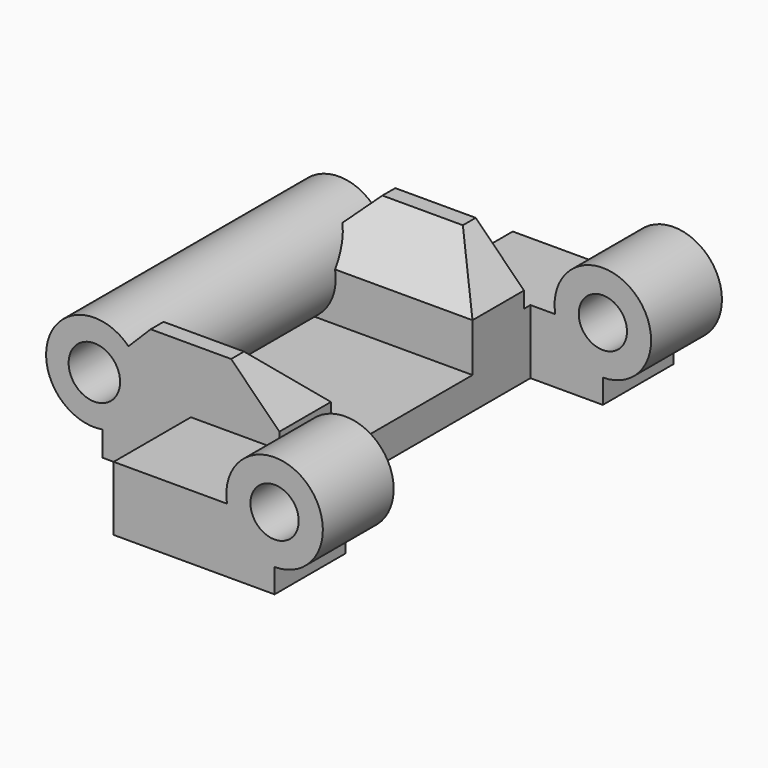
from build123d import *

# Parameters (mm, degrees)
BOX005_W               = 11
BOX005_H               = 20
BOX005_DEPTH           = 8
CYLINDER002_R          = 1.6
CYLINDER002_DEPTH      = 19
CYLINDER002_ROLL_ANGLE = 90
BOX001_W               = 15
BOX001_H               = 11
BOX001_DEPTH           = 7
BOX_W                  = 11
BOX_H                  = 19
BOX_DEPTH              = 8
CHAMFER_SIZE           = 3
CHAMFER001_SIZE        = 3
CHAMFER003_SIZE        = 3
CHAMFER004_SIZE        = 3
CYLINDER005_R          = 3
CYLINDER005_DEPTH      = 19
CYLINDER005_ROLL_ANGLE = 90
CYLINDER007_R          = 1.5
CYLINDER007_DEPTH      = 6
CYLINDER007_ROLL_ANGLE = 90
BOX004_W               = 10
BOX004_H               = 6
BOX004_DEPTH           = 4
CYLINDER008_R          = 3
CYLINDER008_DEPTH      = 6
CYLINDER008_ROLL_ANGLE = 90
CYLINDER003_R          = 1.5
CYLINDER003_DEPTH      = 6
CYLINDER003_ROLL_ANGLE = 90
BOX002_W               = 10
BOX002_H               = 6
BOX002_DEPTH           = 4
CYLINDER004_R          = 3
CYLINDER004_DEPTH      = 6
CYLINDER004_ROLL_ANGLE = 90


with BuildPart() as cube005:
    # Box005 → Box005 (new body)
    with BuildSketch(Plane(origin=(11, -0.5, 0), x_dir=(1, 0, 0), z_dir=(0, 0, 1))):
        with Locations((5.5, 10)):
            Rectangle(BOX005_W, BOX005_H)
    extrude(amount=BOX005_DEPTH)


with BuildPart() as cylinder001:
    # Cylinder002 → Cylinder002 (new body)
    with BuildSketch(Plane.XY):
        Circle(CYLINDER002_R)
    extrude(amount=CYLINDER002_DEPTH)


with BuildPart() as cylinder001_1:
    # Cylinder002 roll: moved
    add(cylinder001.part.rotate(Axis((0, 0, 0), (1, 0, 0)), CYLINDER002_ROLL_ANGLE))


with BuildPart() as cylinder001_2:
    # Cylinder002 placement: moved
    add(cylinder001_1.part.moved(Location((-0.5, 19, 4.5))))


with BuildPart() as cube001:
    # Box001 → Box001 (new body)
    with BuildSketch(Plane(origin=(0, 4, 2), x_dir=(1, 0, 0), z_dir=(0, 0, 1))):
        with Locations((7.5, 5.5)):
            Rectangle(BOX001_W, BOX001_H)
    extrude(amount=BOX001_DEPTH)


with BuildPart() as chamfer004:
    # Box → Box (new body)
    with BuildSketch(Plane.XY):
        with Locations((5.5, 9.5)):
            Rectangle(BOX_W, BOX_H)
    extrude(amount=BOX_DEPTH)

    # Chamfer
    chamfer_edges = [chamfer004.edges().sort_by_distance(p)[0] for p in [
        (11, 9.5, 8),
    ]]
    chamfer(chamfer_edges, length=CHAMFER_SIZE)

    # Chamfer001
    chamfer001_edges = [chamfer004.edges().sort_by_distance(p)[0] for p in [
        (0, 9.5, 8),
    ]]
    chamfer(chamfer001_edges, length=CHAMFER001_SIZE)

    # Cut003: cut Cube001
    add(cube001.part, mode=Mode.SUBTRACT)

    # Chamfer003
    chamfer003_edges = [chamfer004.edges().sort_by_distance(p)[0] for p in [
        (5.5, 15, 8),
    ]]
    chamfer(chamfer003_edges, length=CHAMFER003_SIZE)

    # Chamfer004
    chamfer004_edges = [chamfer004.edges().sort_by_distance(p)[0] for p in [
        (5.5, 4, 8),
    ]]
    chamfer(chamfer004_edges, length=CHAMFER004_SIZE)


with BuildPart() as obj1:
    # Cylinder005 → Cylinder005 (new body)
    with BuildSketch(Plane.XY):
        Circle(CYLINDER005_R)
    extrude(amount=CYLINDER005_DEPTH)


with BuildPart() as obj1_1:
    # Cylinder005 roll: moved
    add(obj1.part.rotate(Axis((0, 0, 0), (1, 0, 0)), CYLINDER005_ROLL_ANGLE))


with BuildPart() as obj1_2:
    # Cylinder005 placement: moved
    add(obj1_1.part.moved(Location((-0.5, 19, 4.5))))

    # Fusion001: union Chamfer004
    add(chamfer004.part)

    # Cut004: cut Cylinder001
    add(cylinder001_2.part, mode=Mode.SUBTRACT)


with BuildPart() as cylinder029:
    # Cylinder007 → Cylinder007 (new body)
    with BuildSketch(Plane.XY):
        Circle(CYLINDER007_R)
    extrude(amount=CYLINDER007_DEPTH)


with BuildPart() as cylinder029_1:
    # Cylinder007 roll: moved
    add(cylinder029.part.rotate(Axis((0, 0, 0), (1, 0, 0)), CYLINDER007_ROLL_ANGLE))


with BuildPart() as cylinder029_2:
    # Cylinder007 placement: moved
    add(cylinder029_1.part.moved(Location((15.5, 25, 4.5))))


with BuildPart() as cube004:
    # Box004 → Box004 (new body)
    with BuildSketch(Plane(origin=(5, 19, 0), x_dir=(1, 0, 0), z_dir=(0, 0, 1))):
        with Locations((5, 3)):
            Rectangle(BOX004_W, BOX004_H)
    extrude(amount=BOX004_DEPTH)


with BuildPart() as obj2:
    # Cylinder008 → Cylinder008 (new body)
    with BuildSketch(Plane.XY):
        Circle(CYLINDER008_R)
    extrude(amount=CYLINDER008_DEPTH)


with BuildPart() as obj2_1:
    # Cylinder008 roll: moved
    add(obj2.part.rotate(Axis((0, 0, 0), (1, 0, 0)), CYLINDER008_ROLL_ANGLE))


with BuildPart() as obj2_2:
    # Cylinder008 placement: moved
    add(obj2_1.part.moved(Location((15, 25, 4.5))))

    # Fusion002: union Cube004
    add(cube004.part)


with BuildPart() as obj2_3:
    # Fusion002 placement: moved
    add(obj2_2.part.moved(Location((0.5, 0, 0))))

    # Cut005: cut Cylinder029
    add(cylinder029_2.part, mode=Mode.SUBTRACT)


with BuildPart() as cylinder002:
    # Cylinder003 → Cylinder003 (new body)
    with BuildSketch(Plane.XY):
        Circle(CYLINDER003_R)
    extrude(amount=CYLINDER003_DEPTH)


with BuildPart() as cylinder002_1:
    # Cylinder003 roll: moved
    add(cylinder002.part.rotate(Axis((0, 0, 0), (1, 0, 0)), CYLINDER003_ROLL_ANGLE))


with BuildPart() as cylinder002_2:
    # Cylinder003 placement: moved
    add(cylinder002_1.part.moved(Location((15.5, 0, 4.5))))


with BuildPart() as cube002:
    # Box002 → Box002 (new body)
    with BuildSketch(Plane(origin=(5, -6, 0), x_dir=(1, 0, 0), z_dir=(0, 0, 1))):
        with Locations((5, 3)):
            Rectangle(BOX002_W, BOX002_H)
    extrude(amount=BOX002_DEPTH)


with BuildPart() as obj3:
    # Cylinder004 → Cylinder004 (new body)
    with BuildSketch(Plane.XY):
        Circle(CYLINDER004_R)
    extrude(amount=CYLINDER004_DEPTH)


with BuildPart() as obj3_1:
    # Cylinder004 roll: moved
    add(obj3.part.rotate(Axis((0, 0, 0), (1, 0, 0)), CYLINDER004_ROLL_ANGLE))


with BuildPart() as obj3_2:
    # Cylinder004 placement: moved
    add(obj3_1.part.moved(Location((15, 0, 4.5))))

    # Fusion: union Cube002
    add(cube002.part)


with BuildPart() as obj3_3:
    # Fusion placement: moved
    add(obj3_2.part.moved(Location((0.5, 0, 0))))

    # Cut002: cut Cylinder002
    add(cylinder002_2.part, mode=Mode.SUBTRACT)

    # Fusion003: union obj1, obj2
    add(obj1_2.part)
    add(obj2_3.part)

    # Cut006: cut Cube005
    add(cube005.part, mode=Mode.SUBTRACT)


solid = obj3_3.part
